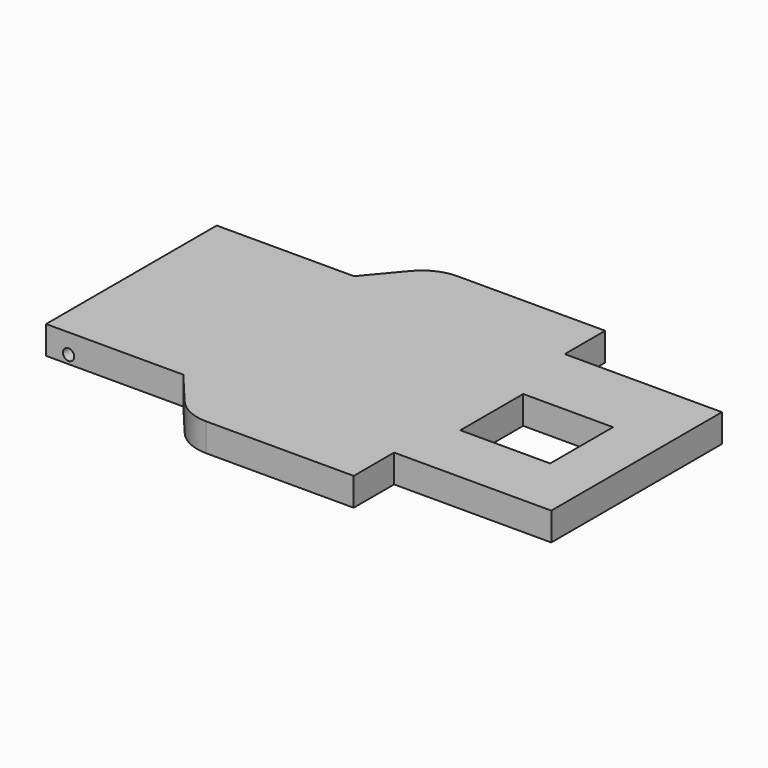
from build123d import *

# Parameters (mm, degrees)
F0_W     = 1143
F0_H     = 482.6
F1_DEPTH = 63.5
F2_W     = 203.2
F2_H     = 177.8
F3_DEPTH = 63.5
F4_R     = 12.7
F5_DEPTH = 482.6
F7_DEPTH = 63.5


with BuildPart() as f1:
    # F0 (on Top) → F1 (new body)
    with BuildSketch(Plane.XY):
        with Locations((571.5, 241.3)):
            Rectangle(F0_W, F0_H)
    extrude(amount=F1_DEPTH)

    # F2 (on face) → F3 (cut)
    with BuildSketch(Plane.XY.offset(63.5)):
        with Locations((927.1, 228.6)):
            Rectangle(F2_W, F2_H)
    extrude(amount=-F3_DEPTH, mode=Mode.SUBTRACT)

    # F4 (on face) → F5 (cut, through all)
    with BuildSketch(Plane.XZ):
        with Locations((50.8, 19.05)):
            Circle(F4_R)
    extrude(amount=-F5_DEPTH, mode=Mode.SUBTRACT)

    # F6 (on face) → F7 (join)
    with BuildSketch(Plane.XY.offset(63.5)):
        with BuildLine():
            Line((310.490912, 482.6), (787.4, 482.6))
            Line((787.4, 482.6), (787.4, 596.9))
            Line((787.4, 596.9), (453.776858, 596.9))
            ThreePointArc((453.776858, 596.9), (410.838843, 587.380871), (375.946743, 560.607221))
            Line((375.946743, 560.607221), (310.490912, 482.6))
        make_face()
        with BuildLine():
            Line((787.4, -114.3), (787.4, 0))
            Line((787.4, 0), (310.490912, 0))
            Line((310.490912, 0), (375.946743, -78.007221))
            ThreePointArc((375.946743, -78.007221), (410.838843, -104.780871), (453.776858, -114.3))
            Line((453.776858, -114.3), (787.4, -114.3))
        make_face()
    extrude(amount=-F7_DEPTH)


solid = f1.part
